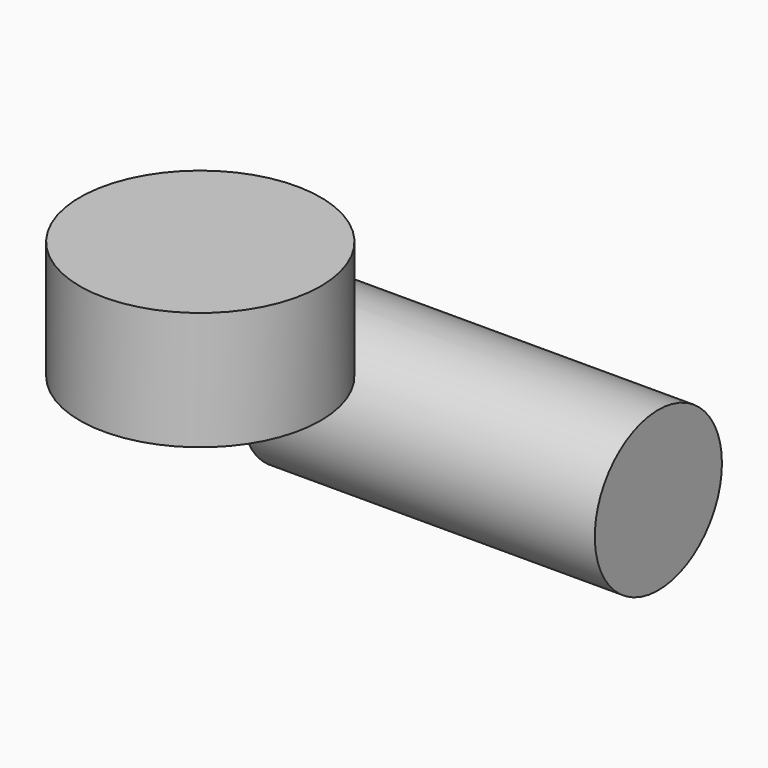
from build123d import *

# Parameters (mm, degrees)
F0_R     = 25.864523
F1_DEPTH = 25.4
F2_R     = 17.06608
F3_DEPTH = 75.894


with BuildPart() as f1:
    # F0 (on Top) → F1 (new body)
    with BuildSketch(Plane.XY):
        Circle(F0_R)
    extrude(amount=F1_DEPTH)

    # F2 (on Right) → F3 (join)
    with BuildSketch(Plane.YZ):
        with Locations((28.10739, -10.173164)):
            Circle(F2_R)
    extrude(amount=F3_DEPTH)


solid = f1.part
